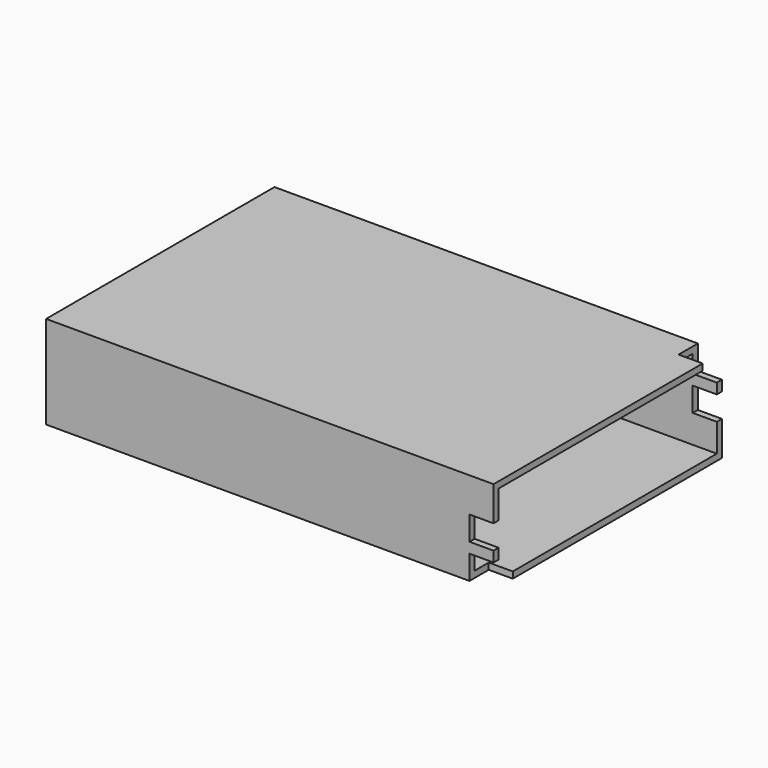
from build123d import *

# Parameters (mm, degrees)
SKETCH006_W             = 35.6
SKETCH006_H             = 11.6
PAD006_DEPTH            = 55.8
SKETCH007_W             = 34
SKETCH007_H             = 10
POCKET_DEPTH            = 55
SKETCH008_W             = 3
SKETCH008_H             = 3
POCKET001_DEPTH         = 3
BODY001_PLACEMENT_ANGLE = 90


with BuildPart() as part:
    # Sketch006 → Pad006 (new body)
    with BuildSketch(Plane.XZ):
        Rectangle(SKETCH006_W, SKETCH006_H)
    extrude(amount=PAD006_DEPTH)

    # Sketch007 → Pocket (cut)
    with BuildSketch(Plane.XZ):
        Rectangle(SKETCH007_W, SKETCH007_H)
    extrude(amount=POCKET_DEPTH, mode=Mode.SUBTRACT)

    # Sketch008 → Pocket001 (cut)
    with BuildSketch(Plane.XZ):
        with Locations((-16.3, 4.3)):
            Rectangle(SKETCH008_W, SKETCH008_H)
        with Locations((16.3, -4.3)):
            Rectangle(SKETCH008_W, SKETCH008_H)
        with Locations((-16.3, 0)):
            Rectangle(SKETCH008_W, SKETCH008_H)
        with Locations((16.3, 0)):
            Rectangle(SKETCH008_W, SKETCH008_H)
    extrude(amount=POCKET001_DEPTH, mode=Mode.SUBTRACT)


with BuildPart() as part_1:
    # Body001 placement: moved
    add(part.part.moved(Location((27, -12.5, 0.5))).rotate(Axis((27, -12.5, 0.5), (0, 0, -1)), BODY001_PLACEMENT_ANGLE))


solid = part_1.part
